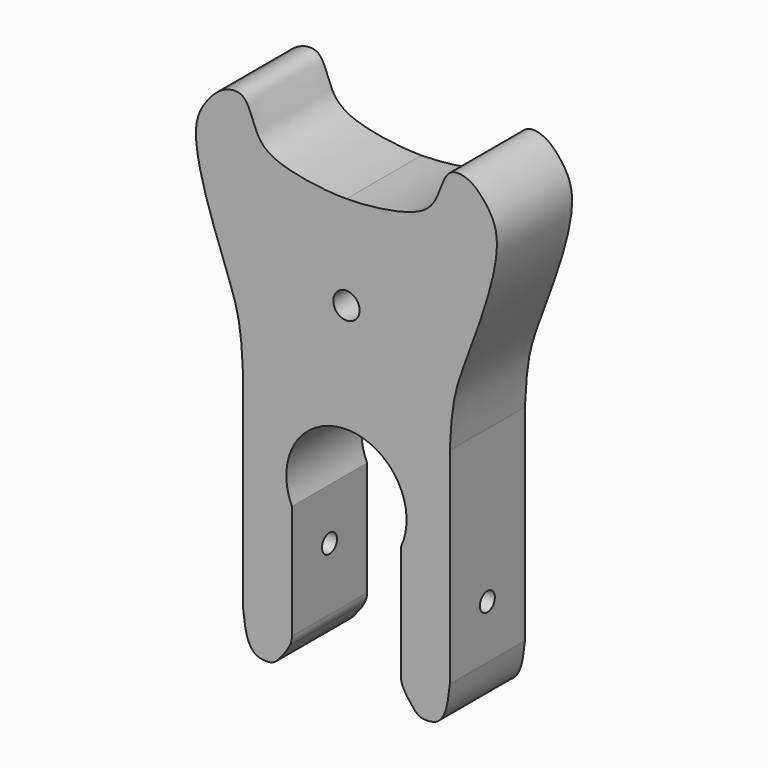
from build123d import *

# Parameters (mm, degrees)
F1_DEPTH = 25
F2_R     = 2.5
F3_DEPTH = 100
F4_R     = 3.5
F5_DEPTH = 25.0010001


with BuildPart() as f1:
    # F0 (on Front) → F1 (new body)
    with BuildSketch(Plane.XZ):
        with BuildLine():
            ThreePointArc((-14.5, -6.7638746292), (0, 16), (14.5, -6.7638746292))
            Line((14.5, -6.7638746292), (14.5, -37.1999460218))
            ThreePointArc((14.5, -37.1999460218), (14.6528725247, -38.4268752121), (15.1021420952, -39.5787788972))
            add(Edge.make_bspline(
                [(27.5, -34.7511768341), (27.255590138, -36.9897407643), (26.8351492289, -40.8233799891), (25.1883859152, -43.9545964407), (23.3005710742, -45.2340026525), (19.4635188861, -45.4287356176), (17.86213827, -43.5159070483), (16.3488760284, -41.7156513782), (15.7319761319, -40.7431820907), (15.1021420952, -39.5787788972)],
                knots=[0, 0, 0, 0, 0.198007493, 0.3408582153, 0.4574241311, 0.6053660081, 0.7274018676, 0.8441870521, 0.9662960051, 0.9662960051, 0.9662960051, 0.9662960051], degree=3))
            Line((27.5, -34.7511768341), (27.5, 20))
            add(Edge.make_bspline(
                [(27.5, 20), (27.9443971813, 30.4721202701), (29.6427169365, 37.3053147522), (35.778316003, 52.6097530075), (42.0180041614, 73.4825873029), (37.1003380144, 81.2589554755), (32.9832872695, 85.4499603343), (26.3220123871, 86.3783214047), (24.4001544939, 76.9332174165), (18.3838037691, 71.6343832534), (5.6098692254, 70.0006979322), (0, 70)],
                knots=[0, 0, 0, 0, 0.1429383225, 0.2728819911, 0.4252410038, 0.5201836047, 0.5990755134, 0.6728608532, 0.7666191343, 0.8590264165, 1, 1, 1, 1], degree=3))
            add(Edge.make_bspline(
                [(-40, 73.7035796046), (-39.7210524822, 77.1147862765), (-37.1003380144, 81.2589554755), (-32.9832872695, 85.4499603343), (-26.3220123871, 86.3783214047), (-24.4001544939, 76.9332174165), (-18.3838037691, 71.6343832534), (-5.6098692254, 70.0006979322), (0, 70)],
                knots=[0.4252410038, 0.4252410038, 0.4252410038, 0.4252410038, 0.5201836047, 0.5990755134, 0.6728608532, 0.7666191343, 0.8590264165, 1, 1, 1, 1], degree=3))
            Line((-40, 73.7035796046), (-40, 70.8703550938))
            add(Edge.make_bspline(
                [(-27.5, 20), (-27.9443971813, 30.4721202701), (-29.6427169365, 37.3053147522), (-35.4269046557, 51.7332040008), (-39.6463968513, 65.5749457141), (-40, 70.8703550938)],
                knots=[0, 0, 0, 0, 0.1429383225, 0.2728819911, 0.400885678, 0.400885678, 0.400885678, 0.400885678], degree=3))
            Line((-27.5, 20), (-27.5, -34.7511768341))
            add(Edge.make_bspline(
                [(-27.5, -34.7511768341), (-27.255590138, -36.9897407643), (-26.8351492289, -40.8233799891), (-25.1883859152, -43.9545964407), (-23.3005710742, -45.2340026525), (-19.4635188861, -45.4287356176), (-17.86213827, -43.5159070483), (-16.3488760284, -41.7156513782), (-15.7319761319, -40.7431820907), (-15.1021420952, -39.5787788972)],
                knots=[0, 0, 0, 0, 0.198007493, 0.3408582153, 0.4574241311, 0.6053660081, 0.7274018676, 0.8441870521, 0.9662960051, 0.9662960051, 0.9662960051, 0.9662960051], degree=3))
            ThreePointArc((-15.1021420952, -39.5787788972), (-14.6528725247, -38.4268752121), (-14.5, -37.1999460218))
            Line((-14.5, -37.1999460218), (-14.5, -6.7638746292))
        make_face()
        with BuildLine():
            add(Edge.make_bspline(
                [(-40, 70.8703550938), (-40.0672802486, 71.8779152951), (-40.0715575264, 72.8285135231), (-40, 73.7035796046)],
                knots=[0.400885678, 0.400885678, 0.400885678, 0.400885678, 0.4252410038, 0.4252410038, 0.4252410038, 0.4252410038], degree=3))
            Line((-40, 70.8703550938), (-40, 73.7035796046))
        make_face()
    extrude(amount=F1_DEPTH)

    # F2 (on face) → F3 (cut, symmetric)
    with BuildSketch(Plane.YZ.offset(27.5)):
        with Locations((-12.5, -20.5)):
            Circle(F2_R)
    extrude(amount=F3_DEPTH, both=True, mode=Mode.SUBTRACT)

    # F4 (on face) → F5 (cut, through all)
    with BuildSketch(Plane.XZ.offset(25)):
        with Locations((0, 45)):
            Circle(F4_R)
    extrude(amount=-F5_DEPTH, mode=Mode.SUBTRACT)


solid = f1.part
